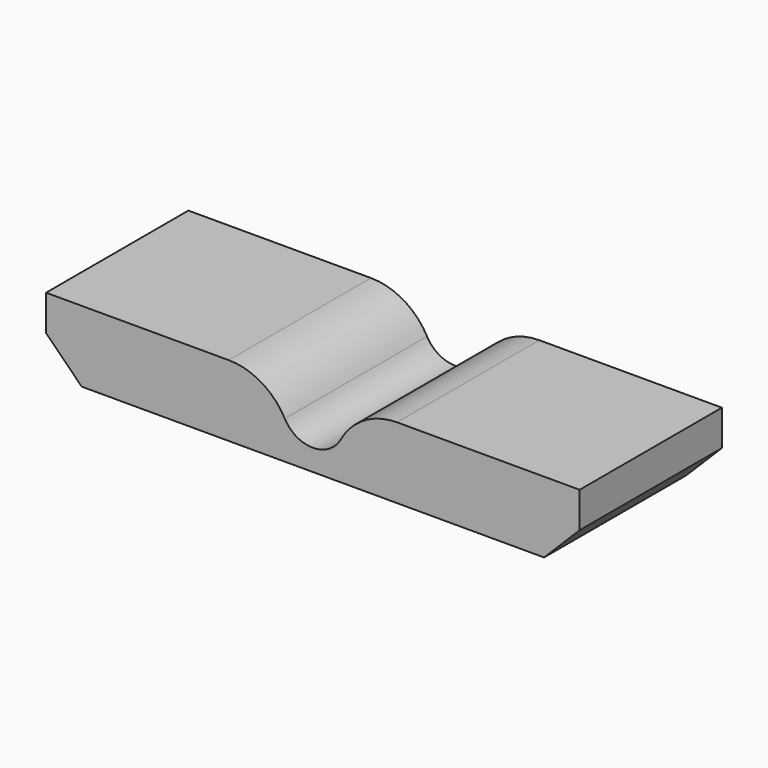
from build123d import *

# Parameters (mm, degrees)
F0_W     = 15
F0_H     = 5
F1_DEPTH = 2
F2_W     = 4.732864
F2_H     = 0.538756
F3_DEPTH = 5.001
F4_SIZE  = 1


with BuildPart() as f1:
    # F0 (on Top) → F1 (new body)
    with BuildSketch(Plane.XY):
        Rectangle(F0_W, F0_H)
    extrude(amount=F1_DEPTH)

    # F2 (on face) → F3 (cut, through all)
    with BuildSketch(Plane.XZ.offset(2.5)):
        with BuildLine():
            ThreePointArc((-2.366432, 2), (-1.449917, 1.749193), (-0.788811, 1.066667))
            ThreePointArc((-0.788811, 1.066667), (0, 0.6), (0.788811, 1.066667))
            ThreePointArc((0.788811, 1.066667), (1.449917, 1.749193), (2.366432, 2))
            Line((2.366432, 2), (-2.366432, 2))
        make_face()
        with Locations((0, 2.269378)):
            Rectangle(F2_W, F2_H)
    extrude(amount=-F3_DEPTH, mode=Mode.SUBTRACT)

    # F4
    f4_edges = [f1.edges().sort_by_distance(p)[0] for p in [
        (-7.5, 0, 0),
        (7.5, 0, 0),
    ]]
    chamfer(f4_edges, length=F4_SIZE)


solid = f1.part
